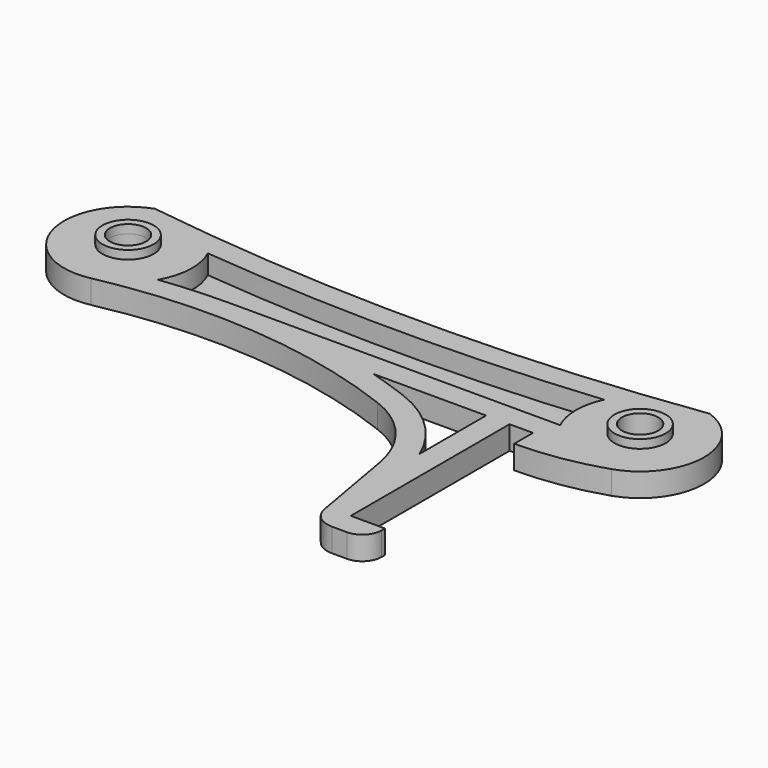
from build123d import *

# Parameters (mm, degrees)
F0_R     = 6
F0_R_2   = 4.25
F1_DEPTH = 5.5
F2_DEPTH = 2
F3_START = -4.5
F3_DEPTH = 1


with BuildPart() as f1:
    # F0 (on Top) → F1 (new body)
    with BuildSketch(Plane.XY):
        with BuildLine():
            ThreePointArc((5.5, -5.5), (15.7204938899, -4.6734816568), (25.6838378205, -2.2499706411))
            ThreePointArc((25.6838378205, -2.2499706411), (35.9990700802, 11.8329768619), (26, 26.1421356237))
            ThreePointArc((26, 26.1421356237), (-39, 21.6354367546), (-104, 26.1421356237))
            ThreePointArc((-104, 26.1421356237), (-113.4464485518, 7.9626587659), (-95.9436079124, -2.6853146853))
            ThreePointArc((-95.9436079124, -2.6853146853), (-59.6280544783, -0.4098034124), (-24.1395420925, -8.4449052422))
            ThreePointArc((-24.1395420925, -8.4449052422), (-14.2030574813, -15.5841269769), (-9.0771910213, -26.6939292452))
            Line((-9.0771910213, -26.6939292452), (-5.4164426416, -47.4550649772))
            ThreePointArc((-5.4164426416, -47.4550649772), (-3.5353318533, -50.7132444372), (0, -52))
            Line((0, -52), (3.5, -52))
            ThreePointArc((3.5, -52), (6.6819805153, -50.6819805153), (8, -47.5))
            Line((8, -47.5), (8, -46.5))
            Line((8, -46.5), (0, -46.5))
            Line((0, -46.5), (0, 0))
            Line((0, 0), (5.5, 0))
            Line((5.5, 0), (5.5, -5.5))
        make_face()
        with Locations((-99, 12)):
            Circle(F0_R, mode=Mode.SUBTRACT)
        with BuildLine():
            ThreePointArc((-69.8623954313, 5.5), (-77.9446739329, 5.2551191295), (-85.9973015672, 4.5213748947))
            ThreePointArc((-85.9973015672, 4.5213748947), (-84.0122690324, 11.3934355406), (-85.4354846008, 18.4034304857))
            ThreePointArc((-85.4354846008, 18.4034304857), (-39, 16.1354367546), (7.4354846008, 18.4034304857))
            ThreePointArc((7.4354846008, 18.4034304857), (6.0000953549, 11.9465150696), (7.4814941654, 5.5))
            Line((7.4814941654, 5.5), (-69.8623954313, 5.5))
        make_face(mode=Mode.SUBTRACT)
        with BuildLine():
            ThreePointArc((-5.4999999702, -19.4717688181), (-12.1799362134, -9.6798741804), (-22.1748882381, -3.3077722643))
            ThreePointArc((-22.1748882381, -3.3077722643), (-27.0245699268, -1.559616), (-31.9381287937, 0))
            Line((-31.9381287937, 0), (-5.4999999702, 0))
            Line((-5.4999999702, 0), (-5.4999999702, -19.4717688181))
        make_face(mode=Mode.SUBTRACT)
        with Locations((21, 12)):
            Circle(F0_R, mode=Mode.SUBTRACT)
        with Locations((21, 12)):
            Circle(F0_R)
        with Locations((21, 12)):
            Circle(F0_R_2, mode=Mode.SUBTRACT)
        with Locations((-99, 12)):
            Circle(F0_R)
        with Locations((-99, 12)):
            Circle(F0_R_2, mode=Mode.SUBTRACT)
    extrude(amount=-F1_DEPTH)

    # F0 (on Top) → F2 (join)
    with BuildSketch(Plane.XY):
        with Locations((21, 12)):
            Circle(F0_R)
        with Locations((21, 12)):
            Circle(F0_R_2, mode=Mode.SUBTRACT)
        with Locations((-99, 12)):
            Circle(F0_R)
        with Locations((-99, 12)):
            Circle(F0_R_2, mode=Mode.SUBTRACT)
    extrude(amount=F2_DEPTH)

    # F0 (on Top) → F3 (join)
    with BuildSketch(Plane.XY.offset(F3_START)):
        with BuildLine():
            ThreePointArc((-85.4354846008, 18.4034304857), (-84.0122690324, 11.3934355406), (-85.9973015672, 4.5213748947))
            ThreePointArc((-85.9973015672, 4.5213748947), (-77.9446739329, 5.2551191295), (-69.8623954313, 5.5))
            Line((-69.8623954313, 5.5), (7.4814941654, 5.5))
            ThreePointArc((7.4814941654, 5.5), (6.0000953549, 11.9465150696), (7.4354846008, 18.4034304857))
            ThreePointArc((7.4354846008, 18.4034304857), (-39, 16.1354367546), (-85.4354846008, 18.4034304857))
        make_face()
    extrude(amount=-F3_DEPTH)


solid = f1.part
